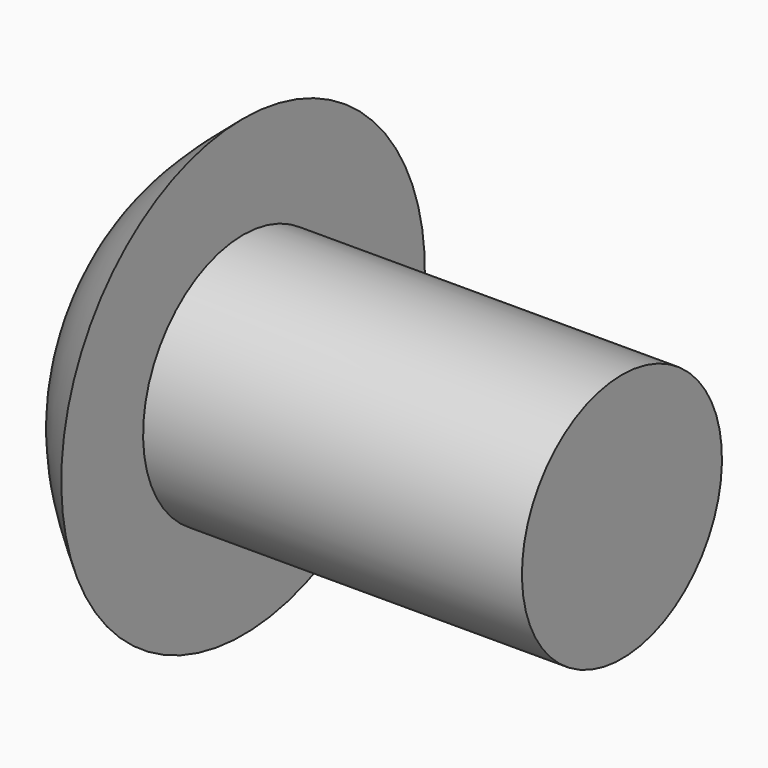
from build123d import *


with BuildPart() as f1:
    # F0 (on Front) → F1 (revolve)
    with BuildSketch(Plane.XZ):
        with BuildLine():
            Line((3, 3.3), (3, 6))
            add(Edge.make_bspline(
                [(3, 6), (2.1370614565, 5.2732989583), (0.3627008093, 3.7790677173), (0.1230827529, 1.2824290601), (0, 0)],
                knots=[0, 0, 0, 0, 0.486337738, 1, 1, 1, 1], degree=3))
            Line((0, 0), (13, 0))
            Line((13, 0), (13, 3.3))
            Line((13, 3.3), (3, 3.3))
        make_face()
    revolve(axis=Axis((6.5, 0, 0), (-1, 0, 0)))


solid = f1.part
